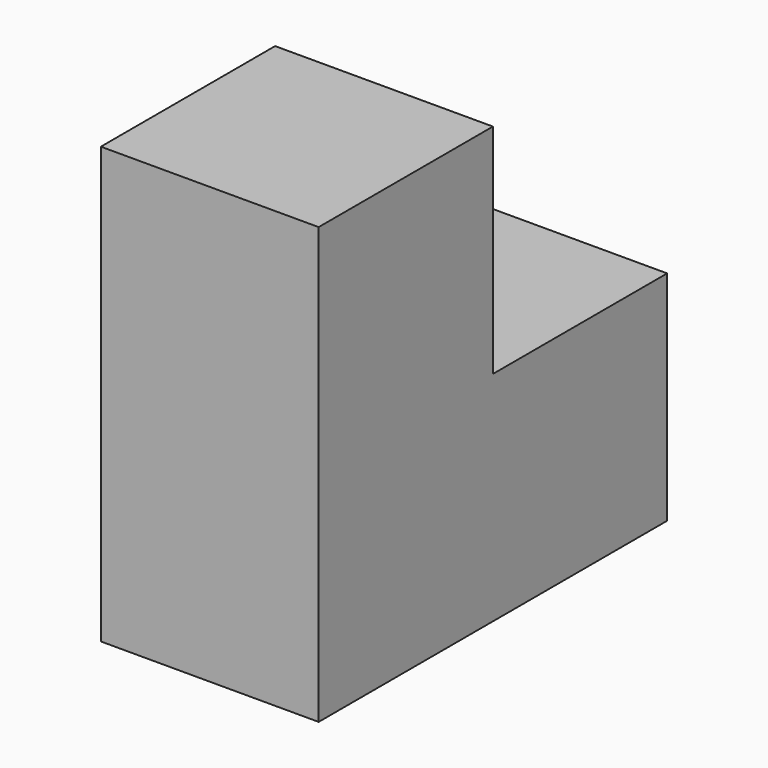
from build123d import *

# Parameters (mm, degrees)
F0_W     = 25.4
F0_H     = 25.4
F1_DEPTH = 25.4


with BuildPart() as f1:
    # F0 (on Right) → F1 (new body)
    with BuildSketch(Plane.YZ):
        with Locations((38.1, -38.1)):
            Rectangle(F0_W, F0_H)
        Polygon((25.4, 0), (0, 0), (0, -50.8), (25.4, -50.8), (25.4, -25.4), align=None)
    extrude(amount=F1_DEPTH)


solid = f1.part
